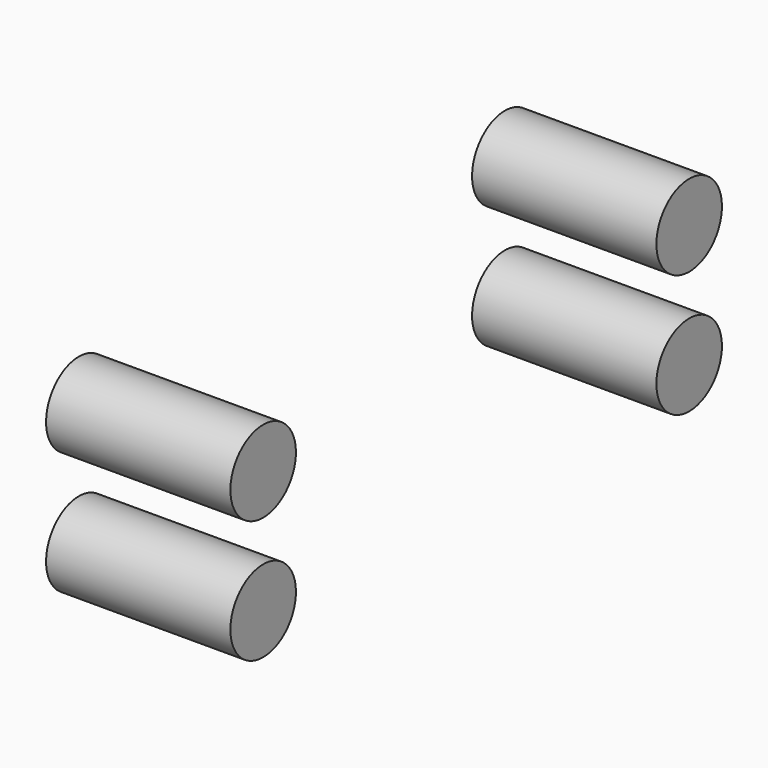
from build123d import *

# Parameters (mm, degrees)
CYLINDER045_R     = 4
CYLINDER045_DEPTH = 18
CYLINDER044_R     = 4
CYLINDER044_DEPTH = 18
CYLINDER047_R     = 4
CYLINDER047_DEPTH = 18
CYLINDER046_R     = 4
CYLINDER046_DEPTH = 18


with BuildPart() as cylinder045:
    # Cylinder045 → Cylinder045 (new body)
    with BuildSketch(Plane(origin=(0, 8, 13.5), x_dir=(0, 0, -1), z_dir=(1, 0, 0))):
        Circle(CYLINDER045_R)
    extrude(amount=CYLINDER045_DEPTH)


with BuildPart() as fusion094:
    # Cylinder044 → Cylinder044 (new body)
    with BuildSketch(Plane(origin=(0, 8, 1.5), x_dir=(0, 0, -1), z_dir=(1, 0, 0))):
        Circle(CYLINDER044_R)
    extrude(amount=CYLINDER044_DEPTH)

    # Fusion094: union Cylinder045
    add(cylinder045.part)


with BuildPart() as fusion094_1:
    # Fusion094 placement: moved
    add(fusion094.part.moved(Location((0, 26, 0))))


with BuildPart() as cylinder047:
    # Cylinder047 → Cylinder047 (new body)
    with BuildSketch(Plane(origin=(0, 8, 13.5), x_dir=(0, 0, -1), z_dir=(1, 0, 0))):
        Circle(CYLINDER047_R)
    extrude(amount=CYLINDER047_DEPTH)


with BuildPart() as fusion096:
    # Cylinder046 → Cylinder046 (new body)
    with BuildSketch(Plane(origin=(0, 8, 1.5), x_dir=(0, 0, -1), z_dir=(1, 0, 0))):
        Circle(CYLINDER046_R)
    extrude(amount=CYLINDER046_DEPTH)

    # Fusion095: union Cylinder047
    add(cylinder047.part)


with BuildPart() as fusion096_1:
    # Fusion095 placement: moved
    add(fusion096.part.moved(Location((0, 78, 0))))

    # Fusion096: union Fusion094
    add(fusion094_1.part)


with BuildPart() as fusion096_2:
    # Fusion096 placement: moved
    add(fusion096_1.part.moved(Location((-1.5, 0, 0))))


solid = fusion096_2.part
